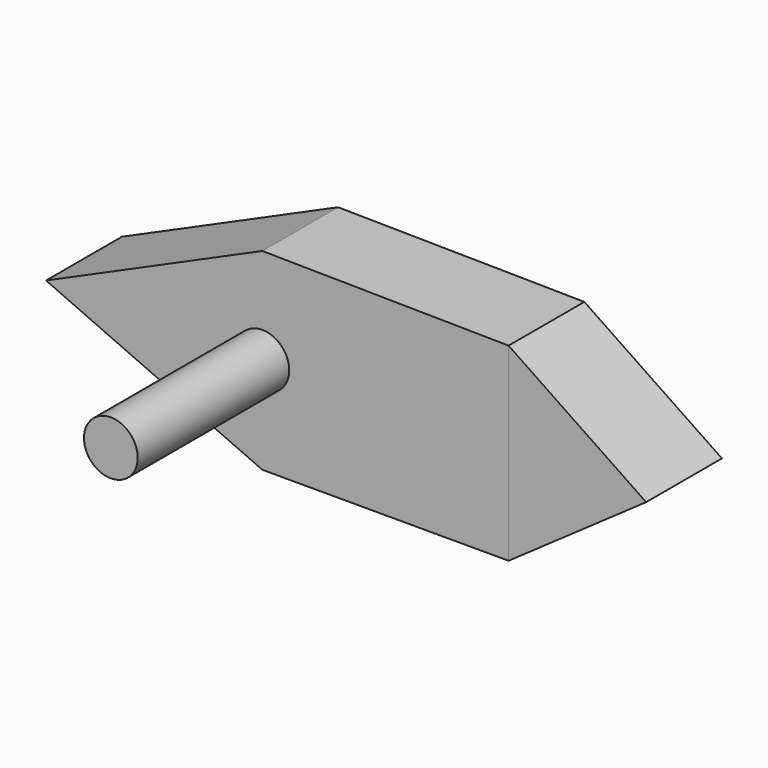
from build123d import *

# Parameters (mm, degrees)
F1_DEPTH = 25.4
F2_R     = 7.203176
F3_DEPTH = 76.2
F5_DEPTH = 25.4


with BuildPart() as f1:
    # F0 (on Front) → F1 (new body)
    with BuildSketch(Plane.XZ):
        Polygon((0, -25.834092), (0, 0), (-58.007324, 0), align=None)
        Polygon((0, 25.834092), (0, 0), (0, -25.834092), (66.04, -25.834092), (66.04, 24.965908), align=None)
        Polygon((-58.007324, 0), (0, 0), (0, 25.834092), align=None)
    extrude(amount=F1_DEPTH)

    # F2 (on face) → F3 (join)
    with BuildSketch(Plane(origin=(0, 0, 0), x_dir=(-1, 0, 0), z_dir=(0, 1, 0))):
        Circle(F2_R)
    extrude(amount=-F3_DEPTH)


with BuildPart() as f5:
    # F4 (on face) → F5 (new body)
    with BuildSketch(Plane.XZ.offset(25.4)):
        Polygon((102.93258, 0), (66.04, 24.965908), (66.04, -25.834092), align=None)
    extrude(amount=-F5_DEPTH)


solid = Compound([f1.part, f5.part])
